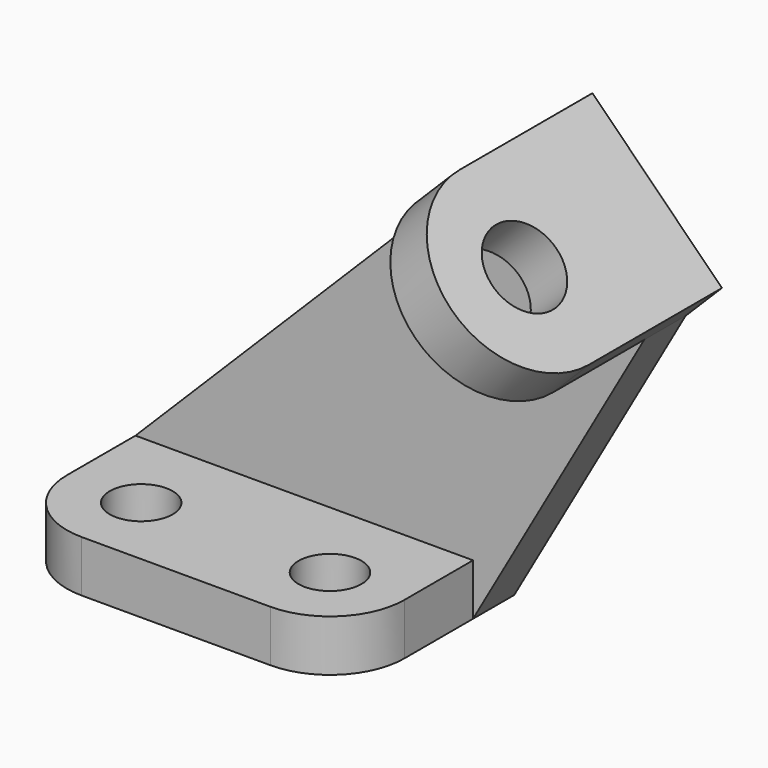
from build123d import *

# Parameters (mm, degrees)
F0_R     = 5.5
F1_DEPTH = 9
F3_DEPTH = 9
F4_R     = 7
F5_DEPTH = 9


with BuildPart() as f1:
    # F0 (on Top) → F1 (new body)
    with BuildSketch(Plane.XY):
        with BuildLine():
            Line((46, 24), (-13, 24))
            Line((-13, 24), (-13, 0))
            ThreePointArc((-13, 0), (-9.192388, -9.192388), (0, -13))
            Line((0, -13), (33, -13))
            ThreePointArc((33, -13), (42.192388, -9.192388), (46, 0))
            Line((46, 0), (46, 24))
        make_face()
        Circle(F0_R, mode=Mode.SUBTRACT)
        with Locations((33, 0)):
            Circle(F0_R, mode=Mode.SUBTRACT)
    extrude(amount=F1_DEPTH)

    # F2 (on face) → F3 (join)
    with BuildSketch(Plane(origin=(0, 24, 0), x_dir=(-1, 0, 0), z_dir=(0, 1, 0))):
        Polygon((-46, 9), (13, 9), (-53.313708, 75.313708), (-75.941125, 52.686292), (-46, 0), align=None)
    extrude(amount=-F3_DEPTH)

    # F4 (on face) → F5 (join)
    with BuildSketch(Plane(origin=(64.313708, 0, 64.313708), x_dir=(0, 1, 0), z_dir=(0.707107, 0, 0.707107))):
        with BuildLine():
            Line((24, -16.443651), (24, 15.556349))
            Line((24, 15.556349), (-5, 15.556349))
            ThreePointArc((-5, 15.556349), (-21, -0.443651), (-5, -16.443651))
            Line((-5, -16.443651), (24, -16.443651))
        make_face()
        with Locations((-5, -0.443651)):
            Circle(F4_R, mode=Mode.SUBTRACT)
    extrude(amount=F5_DEPTH)


solid = f1.part
